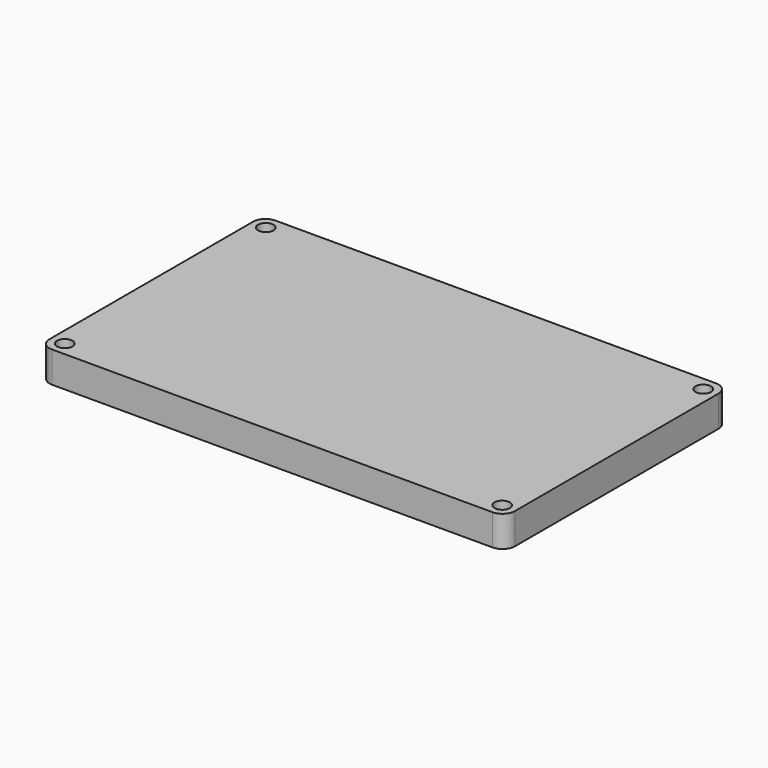
from build123d import *

# Parameters (mm, degrees)
F0_W     = 190.5
F0_H     = 114.3
F0_R     = 3.175
F1_DEPTH = 12.7
F2_R     = 5.08


with BuildPart() as f1:
    # F0 (on Top) → F1 (new body)
    with BuildSketch(Plane.XY):
        with Locations((-1.437962, -36.064971)):
            Rectangle(F0_W, F0_H)
        with Locations((-90.972962, -87.499971)):
            Circle(F0_R, mode=Mode.SUBTRACT)
        with Locations((88.097038, -87.499971)):
            Circle(F0_R, mode=Mode.SUBTRACT)
        with Locations((-90.972962, 15.370029)):
            Circle(F0_R, mode=Mode.SUBTRACT)
        with Locations((88.097038, 15.370029)):
            Circle(F0_R, mode=Mode.SUBTRACT)
    extrude(amount=F1_DEPTH)

    # F2
    f2_edges = [f1.edges().sort_by_distance(p)[0] for p in [
        (93.812038, -93.214971, 6.35),
        (93.812038, 21.085029, 6.35),
        (-96.687962, 21.085029, 6.35),
        (-96.687962, -93.214971, 6.35),
    ]]
    fillet(f2_edges, radius=F2_R)


solid = f1.part
